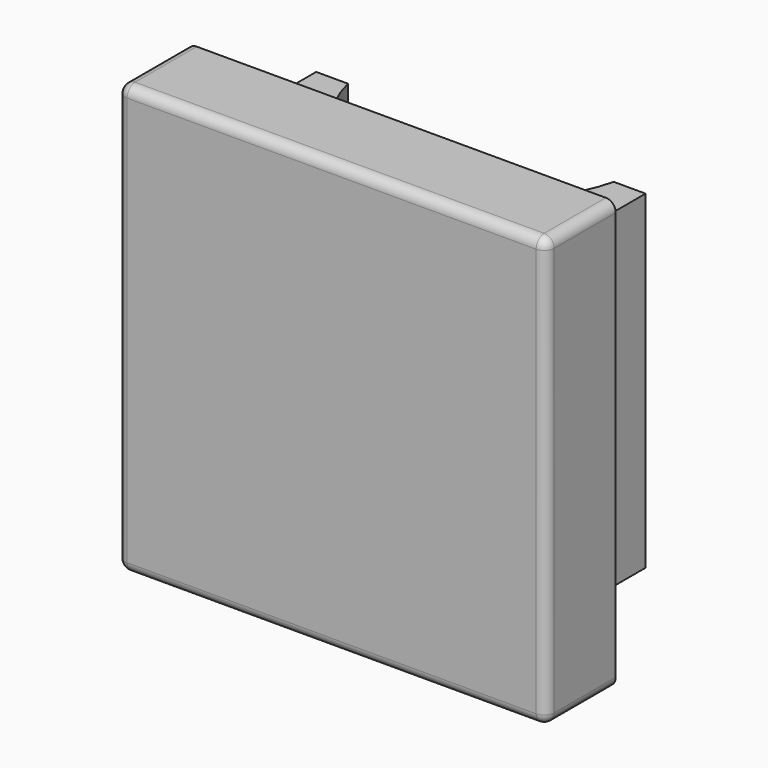
from build123d import *

# Parameters (mm, degrees)
F1_DEPTH = 38.1
F2_W     = 79.502
F2_H     = 79.502
F2_W_2   = 67.31
F2_H_2   = 67.31
F3_DEPTH = 30.48
F4_DEPTH = 20.32
F6_DEPTH = 67.31
F7_R     = 2.032


with BuildPart() as f1:
    # F0 (on Front) → F1 (new body)
    with BuildSketch(Plane.XZ):
        with BuildLine():
            Line((-85.598, 0), (-2.032, 0))
            ThreePointArc((-2.032, 0), (-0.5951590206, 0.5951590206), (0, 2.032))
            Line((0, 2.032), (0, 85.598))
            ThreePointArc((0, 85.598), (-0.5951590206, 87.0348409794), (-2.032, 87.63))
            Line((-2.032, 87.63), (-85.598, 87.63))
            ThreePointArc((-85.598, 87.63), (-87.0348409794, 87.0348409794), (-87.63, 85.598))
            Line((-87.63, 85.598), (-87.63, 2.032))
            ThreePointArc((-87.63, 2.032), (-87.0348409794, 0.5951590206), (-85.598, 0))
        make_face()
    extrude(amount=F1_DEPTH)

    # F2 (on face) → F3 (cut)
    with BuildSketch(Plane(origin=(0, 0, 0), x_dir=(-1, 0, 0), z_dir=(0, 1, 0))):
        with Locations((43.815, 43.815)):
            Rectangle(F2_W, F2_H)
        with Locations((43.815, 43.815)):
            Rectangle(F2_W_2, F2_H_2, mode=Mode.SUBTRACT)
    extrude(amount=-F3_DEPTH, mode=Mode.SUBTRACT)

    # F4 (cut): a face of the model
    f4_faces = [f1.faces().sort_by_distance(p)[0] for p in [
        (-43.815, 0, 1.2392753447),
    ]]
    extrude(f4_faces, amount=-F4_DEPTH, mode=Mode.SUBTRACT)

    # F5 (on face) → F6 (cut, through all)
    with BuildSketch(Plane.XY.offset(77.47)):
        with BuildLine():
            Line((-16.658075929, 0), (-70.971924071, 0))
            ThreePointArc((-70.971924071, 0), (-43.815, -21.3715089252), (-16.658075929, 0))
        make_face()
    extrude(amount=-F6_DEPTH, mode=Mode.SUBTRACT)

    # F7
    f7_edges = [f1.edges().sort_by_distance(p)[0] for p in [
        (-43.815, -38.1, 0),
        (-0.595159, -38.1, 0.595159),
        (0, -38.1, 43.815),
        (-0.595159, -38.1, 87.034841),
        (-43.815, -38.1, 87.63),
        (-87.034841, -38.1, 87.034841),
        (-87.63, -38.1, 43.815),
        (-87.034841, -38.1, 0.595159),
    ]]
    fillet(f7_edges, radius=F7_R)


solid = f1.part
